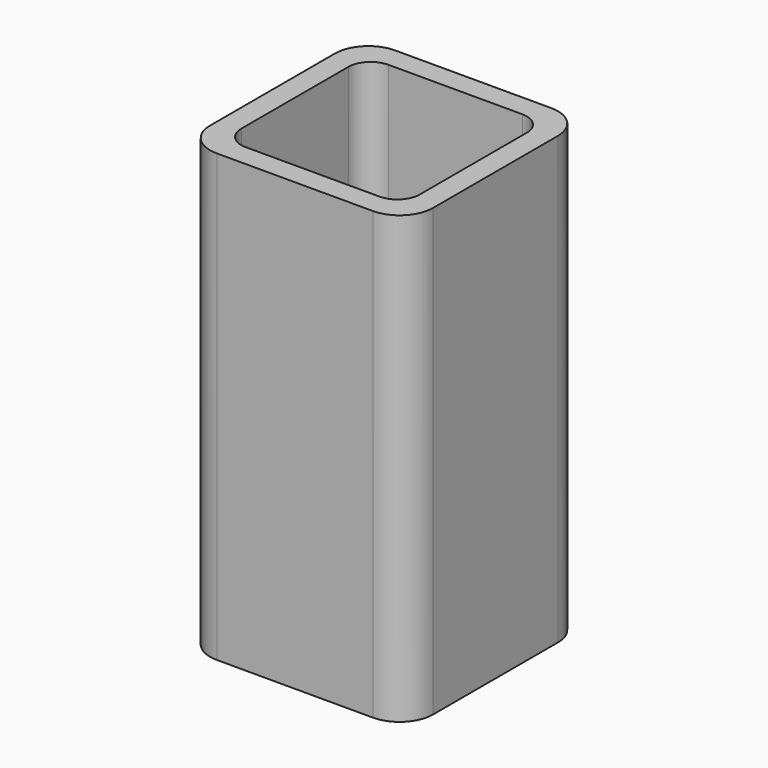
from build123d import *

# Parameters (mm, degrees)
EXTRUDE_DEPTH = 50


with BuildPart() as part:
    # Sketch → Extrude (new body)
    with BuildSketch(Plane.XY):
        with BuildLine():
            Line((-8.75, 12.5), (8.75, 12.5))
            ThreePointArc((12.5, 8.75), (11.40165, 11.40165), (8.75, 12.5))
            Line((12.5, 8.75), (12.5, -8.75))
            ThreePointArc((8.75, -12.5), (11.40165, -11.40165), (12.5, -8.75))
            Line((8.75, -12.5), (-8.75, -12.5))
            ThreePointArc((-12.5, -8.75), (-11.40165, -11.40165), (-8.75, -12.5))
            Line((-12.5, -8.75), (-12.5, 8.75))
            ThreePointArc((-8.75, 12.5), (-11.40165, 11.40165), (-12.5, 8.75))
        make_face()
        with BuildLine():
            Line((-7.5, 10), (7.5, 10))
            ThreePointArc((10, 7.5), (9.267767, 9.267767), (7.5, 10))
            Line((10, 7.5), (10, -7.5))
            ThreePointArc((7.5, -10), (9.267767, -9.267767), (10, -7.5))
            Line((7.5, -10), (-7.5, -10))
            ThreePointArc((-10, -7.5), (-9.267767, -9.267767), (-7.5, -10))
            Line((-10, -7.5), (-10, 7.5))
            ThreePointArc((-7.5, 10), (-9.267767, 9.267767), (-10, 7.5))
        make_face(mode=Mode.SUBTRACT)
    extrude(amount=EXTRUDE_DEPTH)


solid = part.part
